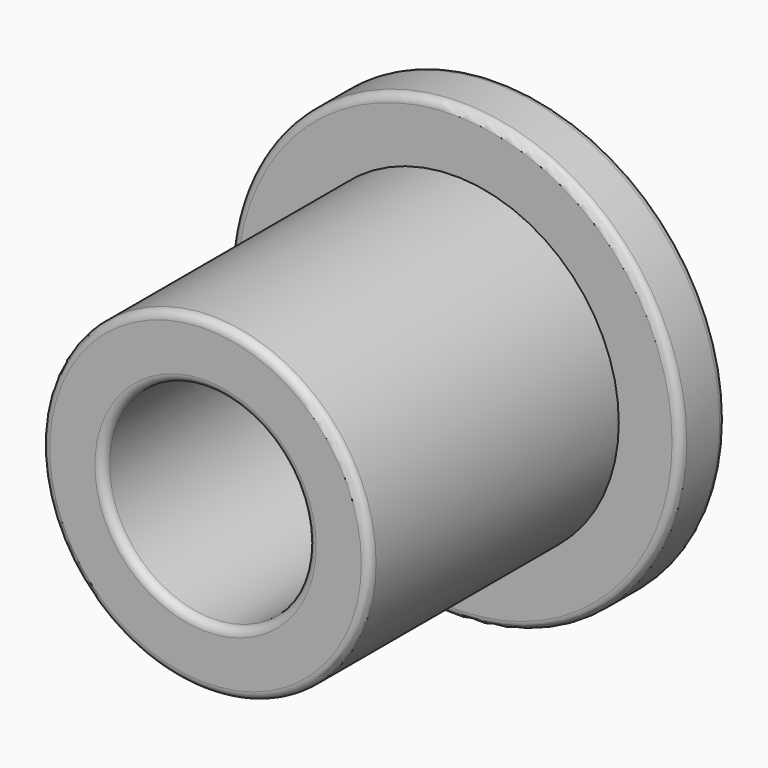
from build123d import *

# Parameters (mm, degrees)
F0_R     = 5.5
F1_DEPTH = 1.4
F2_R     = 4
F3_DEPTH = 7.6
F4_R     = 2.5
F5_DEPTH = 10
F6_R     = 0.2


with BuildPart() as f1:
    # F0 (on Front) → F1 (new body)
    with BuildSketch(Plane.XZ):
        Circle(F0_R)
    extrude(amount=F1_DEPTH)

    # F2 (on face) → F3 (join)
    with BuildSketch(Plane.XZ.offset(1.4)):
        Circle(F2_R)
    extrude(amount=F3_DEPTH)

    # F4 (on face) → F5 (cut)
    with BuildSketch(Plane.XZ.offset(9)):
        Circle(F4_R)
    extrude(amount=-F5_DEPTH, mode=Mode.SUBTRACT)

    # F6
    f6_edges = [f1.edges().sort_by_distance(p)[0] for p in [
        (-2.5, -9, 0),
        (-4, -9, 0),
        (-5.5, -1.4, 0),
        (-5.5, 0, 0),
        (-2.5, 0, 0),
    ]]
    fillet(f6_edges, radius=F6_R)


solid = f1.part
